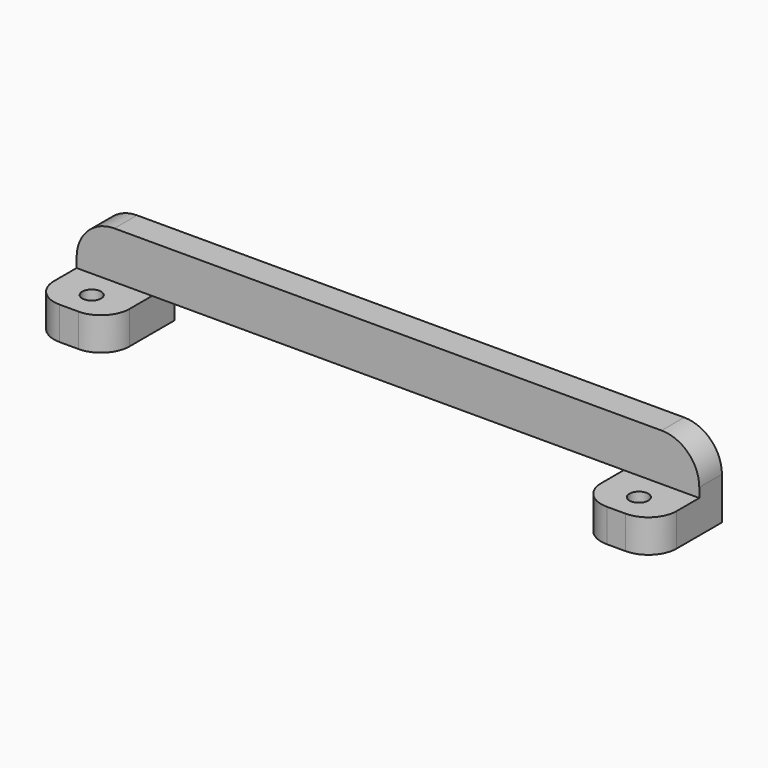
from build123d import *

# Parameters (mm, degrees)
BOX012_W          = 66
BOX012_H          = 3
BOX012_DEPTH      = 5
FILLET003_R       = 4
CYLINDER014_R     = 1
CYLINDER014_DEPTH = 10
BOX013_W          = 8
BOX013_H          = 9
BOX013_DEPTH      = 3.5
FILLET002_R       = 3
ARRAY011_X_COUNT  = 2
ARRAY011_X_PITCH  = 58


with BuildPart() as long_cube_fillet:
    # Box012 → Box012 (new body)
    with BuildSketch(Plane.XY):
        with Locations((33, 1.5)):
            Rectangle(BOX012_W, BOX012_H)
    extrude(amount=BOX012_DEPTH)

    # Fillet003
    fillet003_edges = [long_cube_fillet.edges().sort_by_distance(p)[0] for p in [
        (0, 1.5, 5),
        (66, 1.5, 5),
    ]]
    fillet(fillet003_edges, radius=FILLET003_R)


with BuildPart() as cylinder002:
    # Cylinder014 → Cylinder014 (new body)
    with BuildSketch(Plane(origin=(4, 3, -5), x_dir=(1, 0, 0), z_dir=(0, 0, 1))):
        Circle(CYLINDER014_R)
    extrude(amount=CYLINDER014_DEPTH)


with BuildPart() as obj1:
    # Box013 → Box013 (new body)
    with BuildSketch(Plane.XY.offset(-3.5)):
        with Locations((4, 4.5)):
            Rectangle(BOX013_W, BOX013_H)
    extrude(amount=BOX013_DEPTH)

    # Fillet002
    fillet002_edges = [obj1.edges().sort_by_distance(p)[0] for p in [
        (0, 0, -1.75),
        (8, 0, -1.75),
    ]]
    fillet(fillet002_edges, radius=FILLET002_R)

    # Cut008: cut Cylinder002
    add(cylinder002.part, mode=Mode.SUBTRACT)

    # Array011 X: obj1_2


with BuildPart() as obj1_1:
    add(obj1.part)
    with Locations(*[(i * ARRAY011_X_PITCH, 0, 0) for i in range(1, ARRAY011_X_COUNT)]):
        add(obj1.part)


with BuildPart() as obj1_2:
    # Array011 placement: moved
    add(obj1_1.part.moved(Location((0, -6, 0))))

    # Fusion007: union long cube fillet
    add(long_cube_fillet.part)


solid = obj1_2.part
